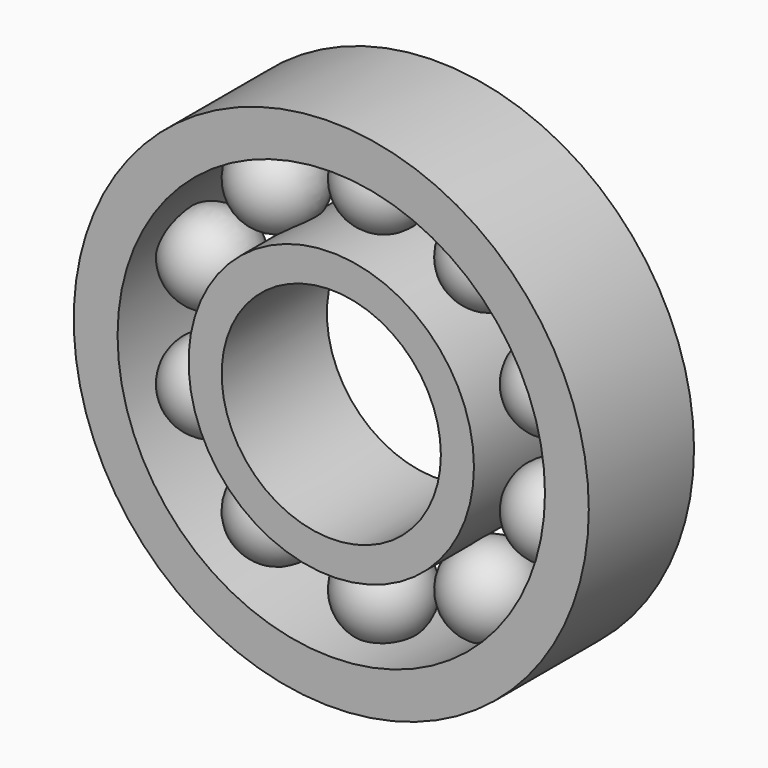
from build123d import *

# Parameters (mm, degrees)
F0_R     = 23.5
F0_R_2   = 19.5
F1_DEPTH = 12
F0_R_3   = 13.019036
F0_R_4   = 10
F2_DEPTH = 12
F7_COUNT = 10


with BuildPart() as f1:
    # F0 (on Front) → F1 (new body)
    with BuildSketch(Plane.XZ):
        Circle(F0_R)
        Circle(F0_R_2, mode=Mode.SUBTRACT)
    extrude(amount=-F1_DEPTH)


with BuildPart() as f2:
    # F0 (on Front) → F2 (new body)
    with BuildSketch(Plane.XZ):
        Circle(F0_R_3)
        Circle(F0_R_4, mode=Mode.SUBTRACT)
    extrude(amount=-F2_DEPTH)


with BuildPart() as f6:
    # F4 (on offset) → F6 (revolve)
    with BuildSketch(Plane.XZ.offset(-6)):
        with BuildLine():
            Line((0, 20.5), (0, 12.5))
            ThreePointArc((0, 12.5), (4, 16.5), (0, 20.5))
        make_face()
    revolve(axis=Axis((0, 6, 16.5), (0, 0, -1)))


with BuildPart() as f7_1:
    # F7: instance of F6
    add(f6.part.rotate(Axis((0, 8.203178, 0), (0, 1, 0)), 1 * 360 / F7_COUNT))


with BuildPart() as f7_2:
    # F7: instance of F6
    add(f6.part.rotate(Axis((0, 8.203178, 0), (0, 1, 0)), 2 * 360 / F7_COUNT))


with BuildPart() as f7_3:
    # F7: instance of F6
    add(f6.part.rotate(Axis((0, 8.203178, 0), (0, 1, 0)), 3 * 360 / F7_COUNT))


with BuildPart() as f7_4:
    # F7: instance of F6
    add(f6.part.rotate(Axis((0, 8.203178, 0), (0, 1, 0)), 4 * 360 / F7_COUNT))


with BuildPart() as f7_5:
    # F7: instance of F6
    add(f6.part.rotate(Axis((0, 8.203178, 0), (0, 1, 0)), 5 * 360 / F7_COUNT))


with BuildPart() as f7_6:
    # F7: instance of F6
    add(f6.part.rotate(Axis((0, 8.203178, 0), (0, 1, 0)), 6 * 360 / F7_COUNT))


with BuildPart() as f7_7:
    # F7: instance of F6
    add(f6.part.rotate(Axis((0, 8.203178, 0), (0, 1, 0)), 7 * 360 / F7_COUNT))


with BuildPart() as f7_8:
    # F7: instance of F6
    add(f6.part.rotate(Axis((0, 8.203178, 0), (0, 1, 0)), 8 * 360 / F7_COUNT))


with BuildPart() as f7_9:
    # F7: instance of F6
    add(f6.part.rotate(Axis((0, 8.203178, 0), (0, 1, 0)), 9 * 360 / F7_COUNT))


solid = Compound([f1.part, f2.part, f6.part, f7_1.part, f7_2.part, f7_3.part, f7_4.part, f7_5.part, f7_6.part, f7_7.part, f7_8.part, f7_9.part])
